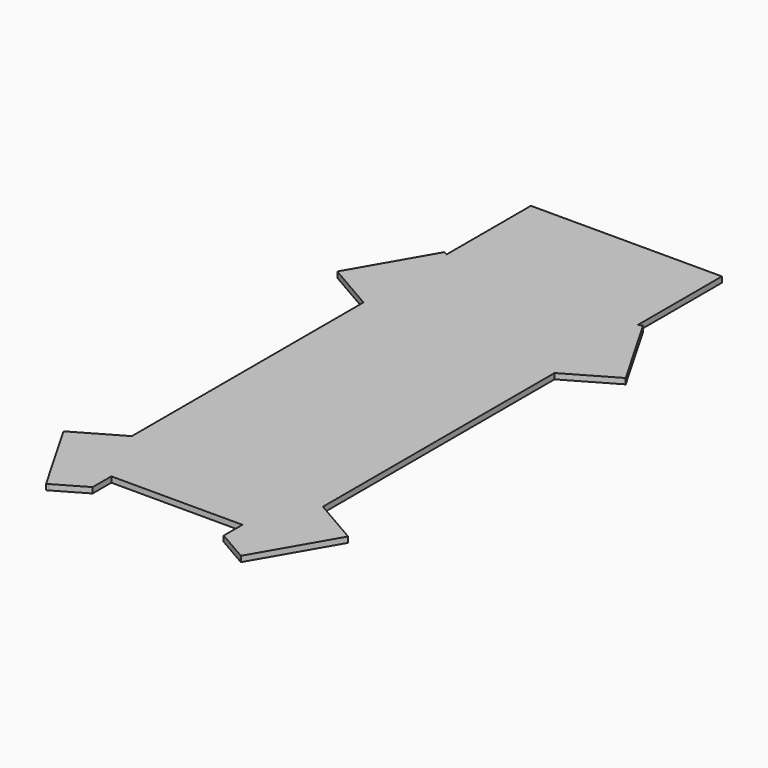
from build123d import *

# Parameters (mm, degrees)
F2_DEPTH = 1.5


with BuildPart() as f2:
    # F1 (on Top) → F2 (new body)
    with BuildSketch(Plane.XY):
        Polygon((17.5, -75), (25.5, -75), (25.5, -58.143594), (25.5, 19.143594), (25.5, 46.856406), (25.5, 75), (-25.5, 75), (-25.5, 46.856406), (-25.5, 19.143594), (-25.5, -58.143594), (-25.5, -75), (-17.5, -75), align=None)
        Polygon((-38.5, 26.649147), (-25.5, 19.143594), (-25.5, 46.856406), (-26.5, 47.433757), align=None)
        Polygon((25.5, 46.856406), (25.5, 19.143594), (38.5, 26.649147), (26.5, 47.433757), align=None)
        Polygon((25.5, -58.143594), (25.5, -75), (17.5, -75), (17.5, -81.237604), (25.5, -85.856406), (26, -86.145082), (38, -65.360472), align=None)
        Polygon((-17.5, -81.237604), (-17.5, -75), (-25.5, -75), (-25.5, -58.143594), (-38, -65.360472), (-26, -86.145082), (-25.5, -85.856406), align=None)
    extrude(amount=F2_DEPTH)


solid = f2.part
